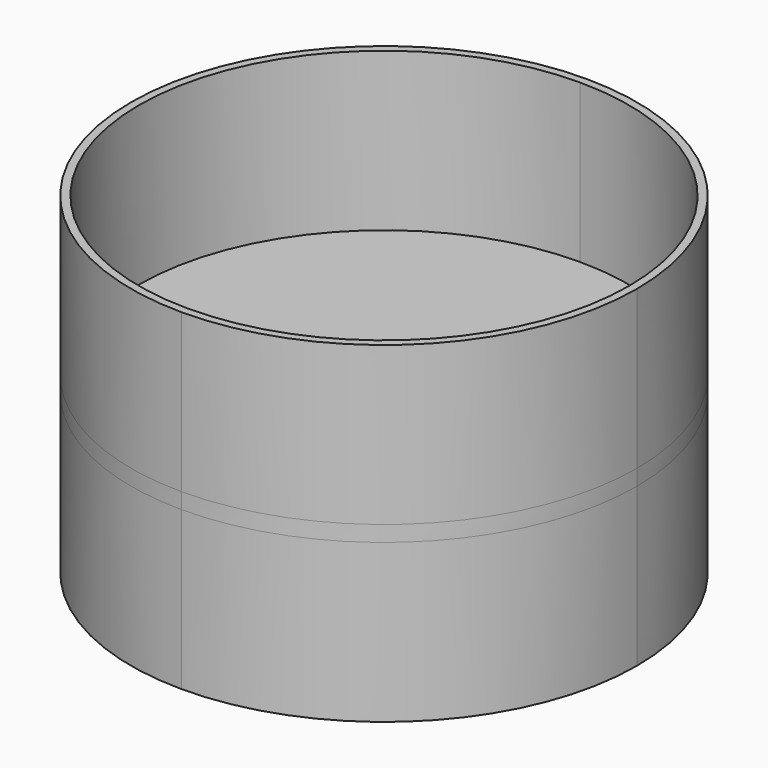
from build123d import *

# Parameters (mm, degrees)
F1_DEPTH = 20
F2_DEPTH = 22
F3_DEPTH = 2


with BuildPart() as f1:
    # F0 (on Top) → F1 (new body)
    with BuildSketch(Plane.XY):
        with BuildLine():
            ThreePointArc((0, -32), (22.627417, -22.627417), (32, 0))
            ThreePointArc((32, 0), (22.627417, 22.627417), (0, 32))
            Line((0, 32), (0, 31))
            ThreePointArc((0, 31), (21.92031, 21.92031), (31, 0))
            ThreePointArc((31, 0), (21.92031, -21.92031), (0, -31))
            Line((0, -31), (0, -32))
        make_face()
        with BuildLine():
            Line((0, 31), (0, 32))
            ThreePointArc((0, 32), (-32, 0), (0, -32))
            Line((0, -32), (0, -31))
            ThreePointArc((0, -31), (-31, 0), (0, 31))
        make_face()
    extrude(amount=F1_DEPTH)

    # F0 (on Top) → F2 (join)
    with BuildSketch(Plane.XY):
        with BuildLine():
            ThreePointArc((0, -32), (22.627417, -22.627417), (32, 0))
            ThreePointArc((32, 0), (22.627417, 22.627417), (0, 32))
            Line((0, 32), (0, 31))
            ThreePointArc((0, 31), (21.92031, 21.92031), (31, 0))
            ThreePointArc((31, 0), (21.92031, -21.92031), (0, -31))
            Line((0, -31), (0, -32))
        make_face()
        with BuildLine():
            Line((0, 31), (0, 32))
            ThreePointArc((0, 32), (-32, 0), (0, -32))
            Line((0, -32), (0, -31))
            ThreePointArc((0, -31), (-31, 0), (0, 31))
        make_face()
    extrude(amount=-F2_DEPTH)

    # F0 (on Top) → F3 (join)
    with BuildSketch(Plane.XY):
        with BuildLine():
            ThreePointArc((31, 0), (21.92031, 21.92031), (0, 31))
            Line((0, 31), (0, -31))
            ThreePointArc((0, -31), (21.92031, -21.92031), (31, 0))
        make_face()
        with BuildLine():
            Line((0, -31), (0, 31))
            ThreePointArc((0, 31), (-31, 0), (0, -31))
        make_face()
        with BuildLine():
            Line((0, 31), (0, 32))
            ThreePointArc((0, 32), (-32, 0), (0, -32))
            Line((0, -32), (0, -31))
            ThreePointArc((0, -31), (-31, 0), (0, 31))
        make_face()
        with BuildLine():
            ThreePointArc((0, -32), (22.627417, -22.627417), (32, 0))
            ThreePointArc((32, 0), (22.627417, 22.627417), (0, 32))
            Line((0, 32), (0, 31))
            ThreePointArc((0, 31), (21.92031, 21.92031), (31, 0))
            ThreePointArc((31, 0), (21.92031, -21.92031), (0, -31))
            Line((0, -31), (0, -32))
        make_face()
    extrude(amount=-F3_DEPTH)


solid = f1.part
